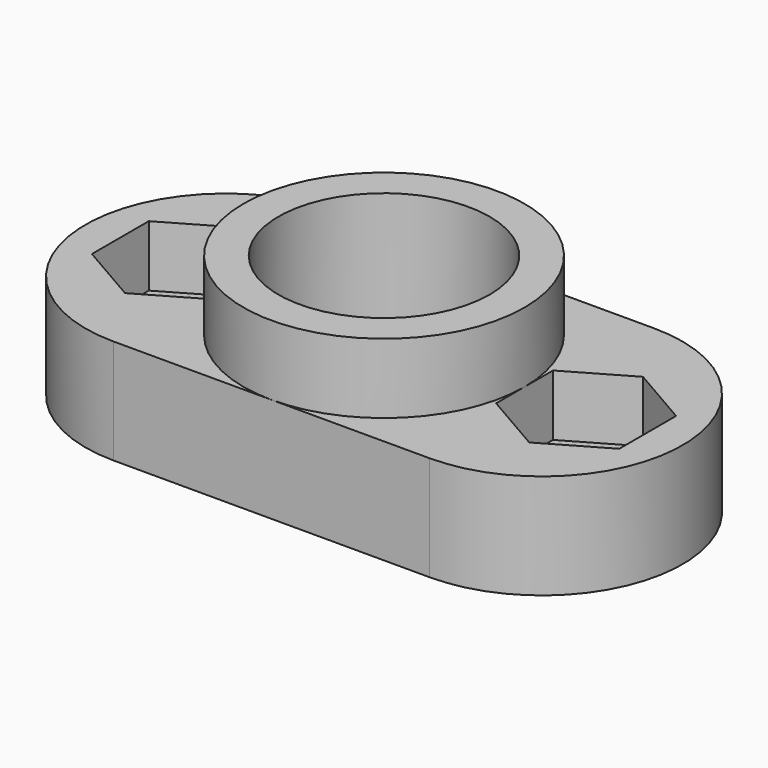
from build123d import *

# Parameters (mm, degrees)
SKETCH_R      = 6.05
SKETCH_R_2    = 2.2
PAD_DEPTH     = 6
POCKET_DEPTH  = 3.5
SKETCH002_R   = 8.05
SKETCH002_R_2 = 6.05
PAD001_DEPTH  = 4
CHAMFER_SIZE  = 0.5


with BuildPart() as part:
    # Sketch → Pad (new body)
    with BuildSketch(Plane.XY):
        with BuildLine():
            ThreePointArc((-9.05, 8.05), (-17.1, 0), (-9.05, -8.05))
            Line((-9.05, -8.05), (9.05, -8.05))
            ThreePointArc((9.05, -8.05), (17.1, 0), (9.05, 8.05))
            Line((-9.05, 8.05), (9.05, 8.05))
        make_face()
        Circle(SKETCH_R, mode=Mode.SUBTRACT)
        with Locations((-11.575, 0)):
            Circle(SKETCH_R_2, mode=Mode.SUBTRACT)
        with Locations((11.575, 0)):
            Circle(SKETCH_R_2, mode=Mode.SUBTRACT)
    extrude(amount=PAD_DEPTH)

    # Sketch001 → Pocket (cut)
    with BuildSketch(Plane.XY.offset(6)):
        Polygon((-11.575, -4.070319), (-8.05, -2.03516), (-8.05, 2.03516), (-11.575, 4.070319), (-15.1, 2.03516), (-15.1, -2.03516), align=None)
        Polygon((11.575, -4.070319), (15.1, -2.03516), (15.1, 2.03516), (11.575, 4.070319), (8.05, 2.03516), (8.05, -2.03516), align=None)
    extrude(amount=-POCKET_DEPTH, mode=Mode.SUBTRACT)

    # Sketch002 → Pad001 (new body)
    with BuildSketch(Plane.XY.offset(6)):
        Circle(SKETCH002_R)
        Circle(SKETCH002_R_2, mode=Mode.SUBTRACT)
    extrude(amount=PAD001_DEPTH)

    # Chamfer
    chamfer_edges = [part.edges().sort_by_distance(p)[0] for p in [
        (-13.775, 0, 0),
        (-6.05, 0, 0),
        (9.375, 0, 0),
    ]]
    chamfer(chamfer_edges, length=CHAMFER_SIZE)


solid = part.part
